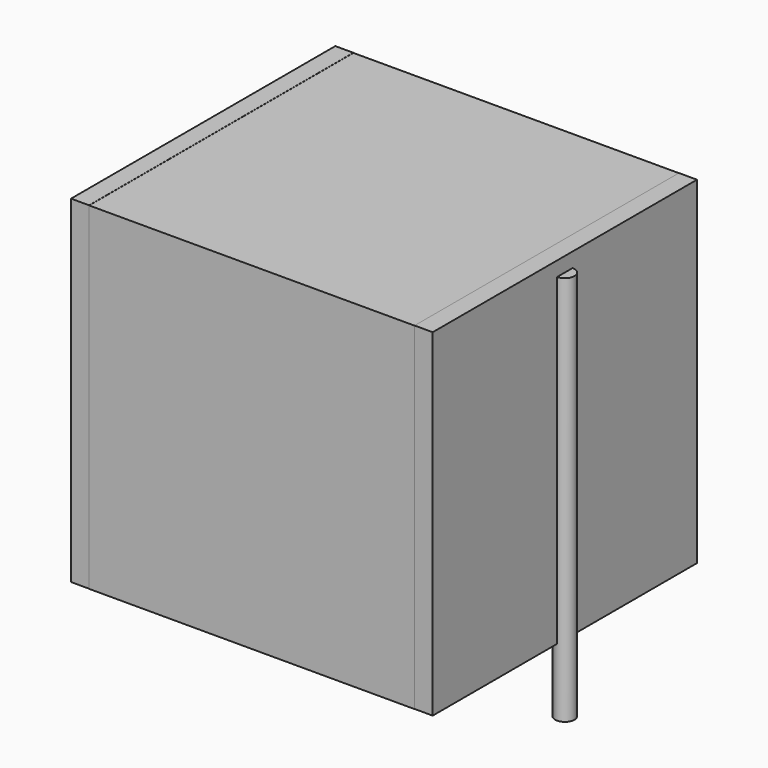
from build123d import *

# Parameters (mm, degrees)
SKETCH_W          = 13.5
SKETCH_H          = 13.7
PAD_DEPTH         = 14
SKETCH001_R       = 0.4
PAD001_DEPTH      = 13
PAD001_DEPTH_BACK = 3.2
SKETCH002_W       = 0.75
SKETCH002_H       = 13.7
PAD002_DEPTH      = 14


with BuildPart() as pad:
    # Sketch → Pad (new body)
    with BuildSketch(Plane.XY.offset(0.1)):
        with Locations((7.5, 0)):
            Rectangle(SKETCH_W, SKETCH_H)
    extrude(amount=PAD_DEPTH)


with BuildPart() as pad001:
    # Sketch001 → Pad001 (new body, two sides)
    with BuildSketch(Plane.XY.offset(0.5)) as pad001_sk:
        Circle(SKETCH001_R)
        with Locations((15, 0)):
            Circle(SKETCH001_R)
    extrude(amount=PAD001_DEPTH)
    extrude(pad001_sk.sketch, amount=-PAD001_DEPTH_BACK)


with BuildPart() as pad002:
    # Sketch002 → Pad002 (new body)
    with BuildSketch(Plane.XY.offset(0.105)):
        with Locations((0.375, 0)):
            Rectangle(SKETCH002_W, SKETCH002_H)
        with Locations((14.625, 0)):
            Rectangle(SKETCH002_W, SKETCH002_H)
    extrude(amount=PAD002_DEPTH)


solid = Compound([pad.part, pad001.part, pad002.part])
